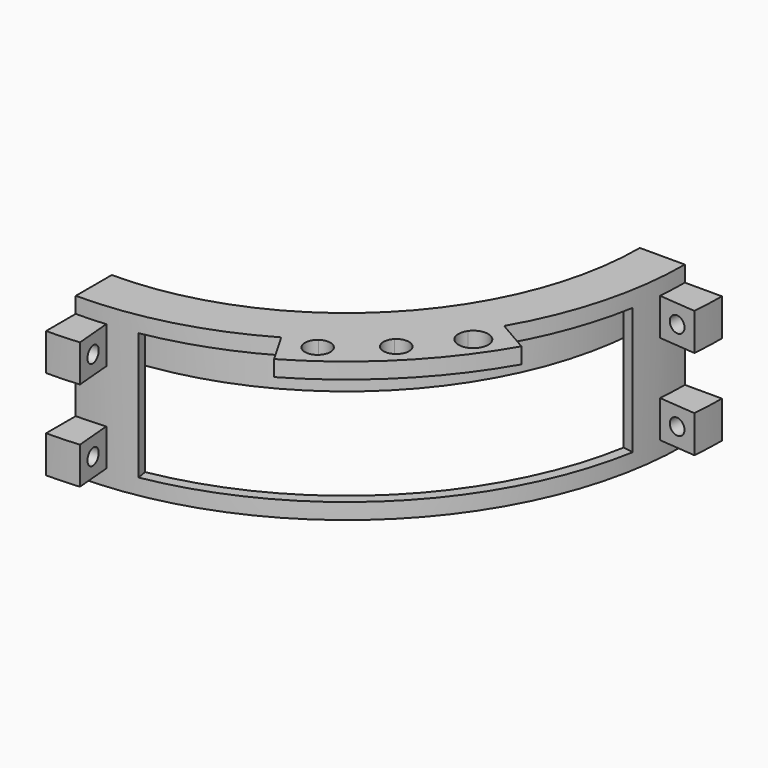
from build123d import *

# Parameters (mm, degrees)
F1_ANGLE       = 90
F2_W           = 35
F2_H           = 35
F2_R           = 7.5
F3_ANGLE       = 5
F4_ANGLE_START = 270
F4_ANGLE       = 5
F5_W           = 10
F5_H           = 120
F6_ANGLE_START = 280
F6_ANGLE       = 70
F7_W           = 35
F7_H           = 15
F8_ANGLE_START = 30
F8_ANGLE       = 30
F10_DEPTH      = 15


with BuildPart() as f1:
    # F0 (on Front) → F1 (revolve)
    with BuildSketch(Plane.XZ):
        Polygon((0, -75.8424619118), (0, 74.1575380882), (-42.5, 74.1575380882), (-42.5, 14.1575380882), (-32.5, 14.1575380882), (-32.5, 59.1575380882), (-10, 59.1575380882), (-10, -75.8424619118), align=None)
    revolve(axis=Axis((-319.5, 0, -5.3764432669), (0, 0, -1)), revolution_arc=F1_ANGLE)

    # F2 (on face) → F3 (revolve)
    with BuildSketch(Plane(origin=(-319.5, 0, 0), x_dir=(0, -1, 0), z_dir=(-1, 0, 0))):
        with Locations((337, 41.6575380882)):
            Rectangle(F2_W, F2_H)
        with Locations((337, 41.6575380882)):
            Circle(F2_R, mode=Mode.SUBTRACT)
        with Locations((337, -43.3424619118)):
            Rectangle(F2_W, F2_H)
        with Locations((337, -43.3424619118)):
            Circle(F2_R, mode=Mode.SUBTRACT)
    revolve(axis=Axis((-319.5, 0, 7.2890669107), (0, 0, 1)), revolution_arc=F3_ANGLE)

    # F2 (on face) → F4 (revolve)
    with BuildSketch(Plane(origin=(-319.5, 0, 0), x_dir=(0, -1, 0), z_dir=(-1, 0, 0)), mode=Mode.PRIVATE) as f4_sk:
        with Locations((337, 41.6575380882)):
            Rectangle(F2_W, F2_H)
        with Locations((337, 41.6575380882)):
            Circle(F2_R, mode=Mode.SUBTRACT)
        with Locations((337, -43.3424619118)):
            Rectangle(F2_W, F2_H)
        with Locations((337, -43.3424619118)):
            Circle(F2_R, mode=Mode.SUBTRACT)
    revolve(f4_sk.sketch.rotate(Axis((-319.5, 0, 74.1575380882), (0, 0, -1)), F4_ANGLE_START), axis=Axis((-319.5, 0, 74.1575380882), (0, 0, -1)), revolution_arc=F4_ANGLE)

    # F5 (on Front) → F6 (revolve, cut)
    with BuildSketch(Plane.XZ, mode=Mode.PRIVATE) as f6_sk:
        with Locations((-5, -0.8424619118)):
            Rectangle(F5_W, F5_H)
    revolve(f6_sk.sketch.rotate(Axis((-319.5, 0, -29.9057289958), (0, 0, 1)), F6_ANGLE_START), axis=Axis((-319.5, 0, -29.9057289958), (0, 0, 1)), revolution_arc=F6_ANGLE, mode=Mode.SUBTRACT)

    # F7 (on Front) → F8 (revolve)
    with BuildSketch(Plane.XZ, mode=Mode.PRIVATE) as f8_sk:
        with Locations((17.5, 66.6575380882)):
            Rectangle(F7_W, F7_H)
    revolve(f8_sk.sketch.rotate(Axis((-319.5, 0, -44.4073081017), (0, 0, -1)), F8_ANGLE_START), axis=Axis((-319.5, 0, -44.4073081017), (0, 0, -1)), revolution_arc=F8_ANGLE)

    # F9 (on face) → F10 (cut)
    with BuildSketch(Plane.XY.offset(74.1575380882)):
        with BuildLine():
            ThreePointArc((-128.7858349133, -272.3680547261), (-123.9019759301, -268.8822474243), (-119.0818139536, -265.3088779176))
            ThreePointArc((-119.0818139536, -265.3088779176), (-126.8087717489, -260.5320409865), (-135.6687521495, -262.5382301946))
            Line((-135.6687521495, -262.5382301946), (-128.7858349133, -272.3680547261))
        make_face()
        with BuildLine():
            ThreePointArc((-138.7382619085, -279.07247095), (-125.2807759939, -283.8447512008), (-116.7858349133, -272.3680547261))
            ThreePointArc((-116.7858349133, -272.3680547261), (-117.3742563302, -268.6564682402), (-119.0818139536, -265.3088779176))
            ThreePointArc((-119.0818139536, -265.3088779176), (-123.9019759301, -268.8822474243), (-128.7858349133, -272.3680547261))
            ThreePointArc((-128.7858349133, -272.3680547261), (-133.7318004616, -275.7651646606), (-138.7382619085, -279.07247095))
        make_face()
        with BuildLine():
            ThreePointArc((-135.6687521495, -262.5382301946), (-140.5842451107, -270.1777312768), (-138.7382619085, -279.07247095))
            ThreePointArc((-138.7382619085, -279.07247095), (-133.7318004616, -275.7651646606), (-128.7858349133, -272.3680547261))
            Line((-128.7858349133, -272.3680547261), (-135.6687521495, -262.5382301946))
        make_face()
        with BuildLine():
            ThreePointArc((-92.8722766297, -226.6277233703), (-96.3865067666, -235.0047296602), (-93.0240128621, -243.4437866324))
            ThreePointArc((-93.0240128621, -243.4437866324), (-88.6679185241, -239.3173628501), (-84.3869952555, -235.1130047445))
            Line((-84.3869952555, -235.1130047445), (-92.8722766297, -226.6277233703))
        make_face()
        with BuildLine():
            ThreePointArc((-84.3869952555, -235.1130047445), (-88.6679185241, -239.3173628501), (-93.0240128621, -243.4437866324))
            ThreePointArc((-93.0240128621, -243.4437866324), (-79.8950141379, -246.2405429107), (-72.3869952555, -235.1130047445))
            ThreePointArc((-72.3869952555, -235.1130047445), (-73.3423272511, -230.4209573585), (-76.0562133676, -226.4759871379))
            ThreePointArc((-76.0562133676, -226.4759871379), (-80.1826371499, -230.8320814759), (-84.3869952555, -235.1130047445))
        make_face()
        with BuildLine():
            ThreePointArc((-76.0562133676, -226.4759871379), (-84.4952703398, -223.1134932334), (-92.8722766297, -226.6277233703))
            Line((-92.8722766297, -226.6277233703), (-84.3869952555, -235.1130047445))
            ThreePointArc((-84.3869952555, -235.1130047445), (-80.1826371499, -230.8320814759), (-76.0562133676, -226.4759871379))
        make_face()
        with BuildLine():
            ThreePointArc((-47.1319452739, -190.7141650867), (-51.2073455895, -196.4059611859), (-55.4016699554, -202.010697904))
            ThreePointArc((-55.4016699554, -202.010697904), (-40.7985475105, -203.1996796044), (-33.1319452739, -190.7141650867))
            ThreePointArc((-33.1319452739, -190.7141650867), (-34.7825326257, -184.1193180647), (-39.3450891659, -179.0795240543))
            ThreePointArc((-39.3450891659, -179.0795240543), (-43.1772754806, -184.9378325658), (-47.1319452739, -190.7141650867))
        make_face()
        with BuildLine():
            ThreePointArc((-58.600073894, -182.6840949778), (-60.9440815462, -192.9999672643), (-55.4016699554, -202.010697904))
            ThreePointArc((-55.4016699554, -202.010697904), (-51.2073455895, -196.4059611859), (-47.1319452739, -190.7141650867))
            Line((-47.1319452739, -190.7141650867), (-58.600073894, -182.6840949778))
        make_face()
        with BuildLine():
            ThreePointArc((-47.1319452739, -190.7141650867), (-43.1772754806, -184.9378325658), (-39.3450891659, -179.0795240543))
            ThreePointArc((-39.3450891659, -179.0795240543), (-49.7080226626, -176.953212166), (-58.600073894, -182.6840949778))
            Line((-58.600073894, -182.6840949778), (-47.1319452739, -190.7141650867))
        make_face()
    extrude(amount=-F10_DEPTH, mode=Mode.SUBTRACT)


solid = f1.part
